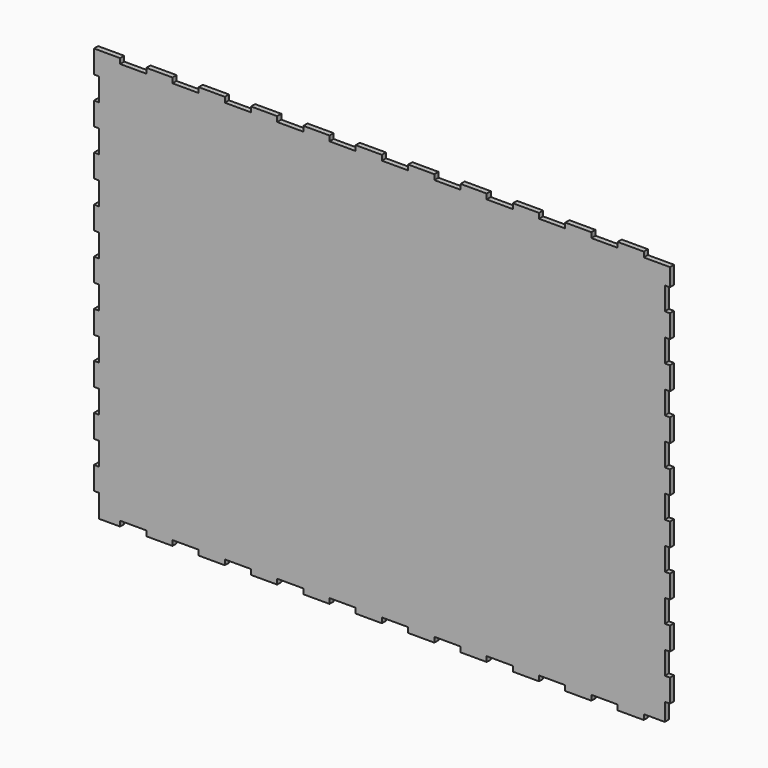
from build123d import *

# Parameters (mm, degrees)
F1_DEPTH = 3


with BuildPart() as f1:
    # F0 (on Front) → F1 (new body)
    with BuildSketch(Plane.XZ):
        Polygon((152.04934, 116.75), (152.04934, 119.75), (136.84934, 119.75), (136.84934, 116.75), (121.64934, 116.75), (121.64934, 119.75), (106.44934, 119.75), (106.44934, 116.75), (91.24934, 116.75), (91.24934, 119.75), (76.04934, 119.75), (76.04934, 116.75), (60.84934, 116.75), (60.84934, 119.75), (45.64934, 119.75), (45.64934, 116.75), (30.44934, 116.75), (30.44934, 119.75), (15.24934, 119.75), (15.24934, 116.75), (0.04934, 116.75), (-0.04934, 116.75), (-0.04934, 119.75), (-15.24934, 119.75), (-15.24934, 116.75), (-30.44934, 116.75), (-30.44934, 119.75), (-45.64934, 119.75), (-45.64934, 116.75), (-60.84934, 116.75), (-60.84934, 119.75), (-76.04934, 119.75), (-76.04934, 116.75), (-91.24934, 116.75), (-91.24934, 119.75), (-106.44934, 119.75), (-106.44934, 116.75), (-121.64934, 116.75), (-121.64934, 119.75), (-136.84934, 119.75), (-136.84934, 116.75), (-152.04934, 116.75), (-152.04934, 119.75), (-167.24934, 119.75), (-167.24934, 106.45), (-164.24934, 106.45), (-164.24934, 93.15), (-167.24934, 93.15), (-167.24934, 79.85), (-164.24934, 79.85), (-164.24934, 66.55), (-167.24934, 66.55), (-167.24934, 53.25), (-164.24934, 53.25), (-164.24934, 39.95), (-167.24934, 39.95), (-167.24934, 26.65), (-164.24934, 26.65), (-164.24934, 13.35), (-167.24934, 13.35), (-167.24934, 0.05), (-164.24934, 0.05), (-164.24934, -0.05), (-164.24934, -13.35), (-167.24934, -13.35), (-167.24934, -26.65), (-164.24934, -26.65), (-164.24934, -39.95), (-167.24934, -39.95), (-167.24934, -53.25), (-164.24934, -53.25), (-164.24934, -66.55), (-167.24934, -66.55), (-167.24934, -79.85), (-164.24934, -79.85), (-164.24934, -93.15), (-167.24934, -93.15), (-167.24934, -106.45), (-164.24934, -106.45), (-164.24934, -119.75), (-152.04934, -119.75), (-152.04934, -116.75), (-136.84934, -116.75), (-136.84934, -119.75), (-121.64934, -119.75), (-121.64934, -116.75), (-106.44934, -116.75), (-106.44934, -119.75), (-91.24934, -119.75), (-91.24934, -116.75), (-76.04934, -116.75), (-76.04934, -119.75), (-60.84934, -119.75), (-60.84934, -116.75), (-45.64934, -116.75), (-45.64934, -119.75), (-30.44934, -119.75), (-30.44934, -116.75), (-15.24934, -116.75), (-15.24934, -119.75), (-0.04934, -119.75), (-0.04934, -116.75), (0.04934, -116.75), (15.24934, -116.75), (15.24934, -119.75), (30.44934, -119.75), (30.44934, -116.75), (45.64934, -116.75), (45.64934, -119.75), (60.84934, -119.75), (60.84934, -116.75), (76.04934, -116.75), (76.04934, -119.75), (91.24934, -119.75), (91.24934, -116.75), (106.44934, -116.75), (106.44934, -119.75), (121.64934, -119.75), (121.64934, -116.75), (136.84934, -116.75), (136.84934, -119.75), (152.04934, -119.75), (152.04934, -116.75), (164.24934, -116.75), (164.24934, -106.45), (167.24934, -106.45), (167.24934, -93.15), (164.24934, -93.15), (164.24934, -79.85), (167.24934, -79.85), (167.24934, -66.55), (164.24934, -66.55), (164.24934, -53.25), (167.24934, -53.25), (167.24934, -39.95), (164.24934, -39.95), (164.24934, -26.65), (167.24934, -26.65), (167.24934, -13.35), (164.24934, -13.35), (164.24934, -0.05), (164.24934, 0.05), (167.24934, 0.05), (167.24934, 13.35), (164.24934, 13.35), (164.24934, 26.65), (167.24934, 26.65), (167.24934, 39.95), (164.24934, 39.95), (164.24934, 53.25), (167.24934, 53.25), (167.24934, 66.55), (164.24934, 66.55), (164.24934, 79.85), (167.24934, 79.85), (167.24934, 93.15), (164.24934, 93.15), (164.24934, 106.45), (167.24934, 106.45), (167.24934, 116.75), align=None)
    extrude(amount=F1_DEPTH)


solid = f1.part
